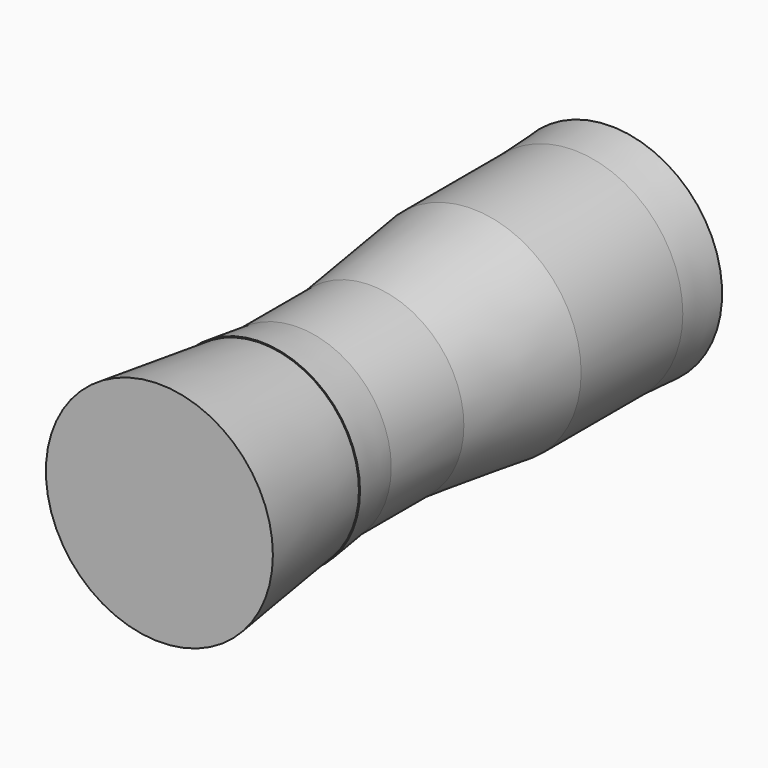
from build123d import *

# Parameters (mm, degrees)
F0_R      = 60
F1_DEPTH  = 70
F2_R      = 60
F3_DEPTH  = 70
F3_TAPER  = 7
F5_R      = 54.9341030365
F6_DEPTH  = 25.4
F7_R      = 47.9617586767
F8_DEPTH  = 205.994
F4_R      = 51.4050807368
F12_DEPTH = 50
F13_R     = 51.4050807368
F14_DEPTH = 25.4
F14_TAPER = -7
F15_R     = 53.9269190887
F16_DEPTH = 70
F16_TAPER = -7
F11_R     = 60
F17_DEPTH = 25.4
F17_TAPER = -3


with BuildPart() as f1:
    # F0 (on Front) → F1 (new body)
    with BuildSketch(Plane.XZ):
        Circle(F0_R)
    extrude(amount=-F1_DEPTH)

    # F2 (on face) → F3 (join)
    with BuildSketch(Plane.XZ):
        Circle(F2_R)
    extrude(amount=F3_DEPTH, taper=F3_TAPER)

    # F5 (on face) → F6 (cut)
    with BuildSketch(Plane(origin=(0, 70, 0), x_dir=(-1, 0, 0), z_dir=(0, 1, 0))):
        Circle(F5_R)
    extrude(amount=-F6_DEPTH, mode=Mode.SUBTRACT)

    # F7 (on face) → F8 (cut)
    with BuildSketch(Plane.XZ.offset(70)):
        Circle(F7_R)
    extrude(amount=-F8_DEPTH, mode=Mode.SUBTRACT)

    # F4 (on face) → F12 (join)
    with BuildSketch(Plane.XZ.offset(70)):
        Circle(F4_R)
    extrude(amount=F12_DEPTH)

    # F13 (on face) → F14 (join)
    with BuildSketch(Plane.XZ.offset(120)):
        Circle(F13_R)
    extrude(amount=F14_DEPTH, taper=F14_TAPER)

    # F15 (on face) → F16 (join)
    with BuildSketch(Plane.XZ.offset(145.4)):
        Circle(F15_R)
    extrude(amount=F16_DEPTH, taper=F16_TAPER)

    # F11 (on face) → F17 (join)
    with BuildSketch(Plane(origin=(0, 70, 0), x_dir=(-1, 0, 0), z_dir=(0, 1, 0))):
        Circle(F11_R)
    extrude(amount=F17_DEPTH, taper=F17_TAPER)


solid = f1.part
